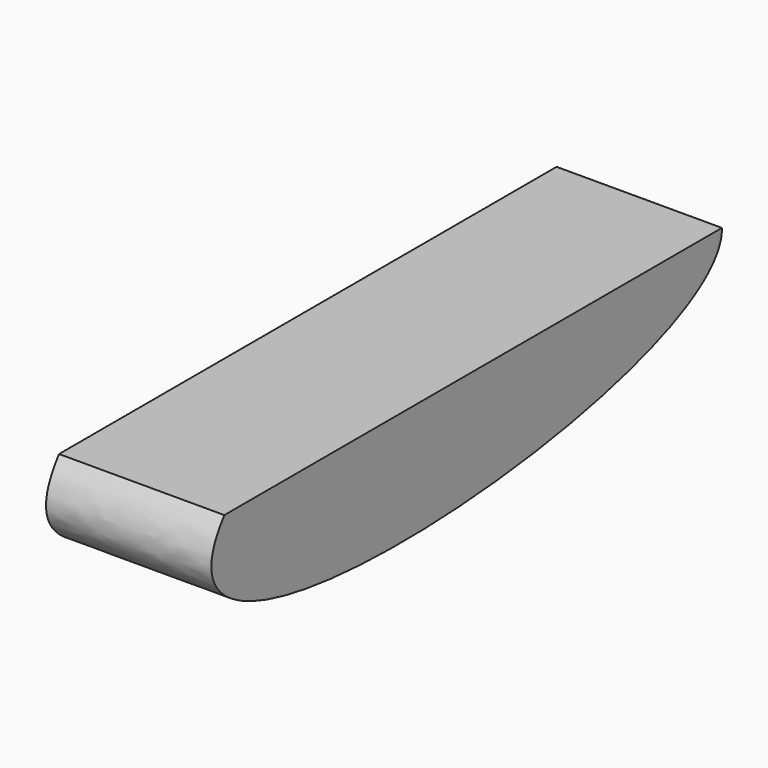
from build123d import *

# Parameters (mm, degrees)
F1_DEPTH = 25.4


with BuildPart() as f1:
    # F0 (on Right) → F1 (new body)
    with BuildSketch(Plane.YZ):
        with BuildLine():
            Line((46.907233, 27.018964), (-48.650102, 27.018964))
            add(Edge.make_bspline(
                [(46.907233, 27.018964), (47.465493, 7.581526), (-69.505088, 0), (-48.650102, 27.018964)],
                knots=[0, 0, 0, 0, 95.557335, 95.557335, 95.557335, 95.557335], degree=3))
        make_face()
    extrude(amount=F1_DEPTH)


solid = f1.part
